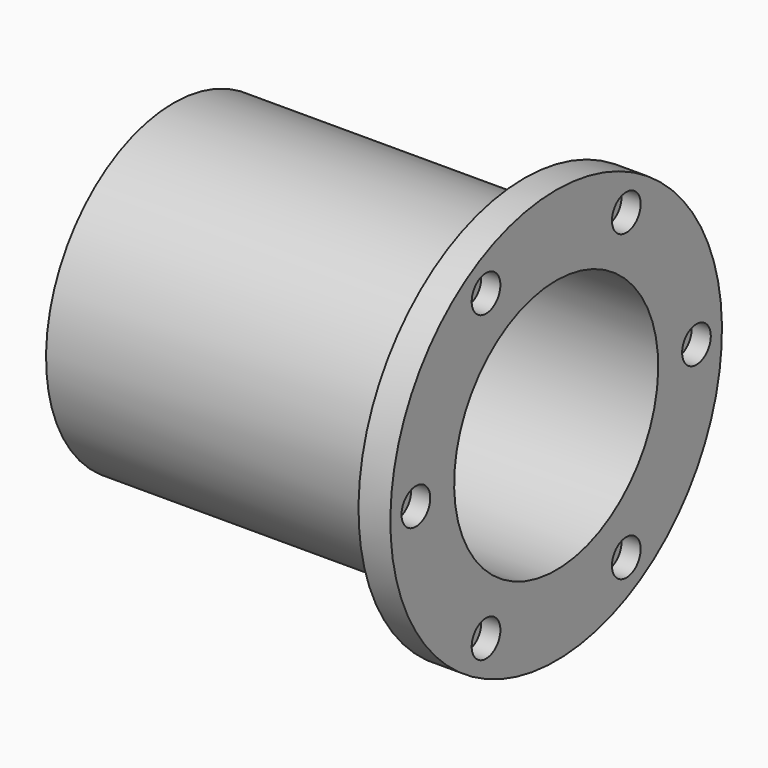
from build123d import *

# Parameters (mm, degrees)
F3_D           = 5
F3_CBORE_D     = 11.25
F3_CBORE_DEPTH = 6


with BuildPart() as f1:
    # F0 (on Front) → F1 (revolve)
    with BuildSketch(Plane.XZ):
        Polygon((0, 50), (0, 40), (120, 40), (120, 65), (110, 65), (110, 50), align=None)
    revolve(axis=Axis((47.715056873, 0, 0), (1, 0, 0)))

    # F3 (through all)
    with Locations(Plane.YZ.offset(120)):
        with Locations((-27.5, 47.6313972081), (27.5, 47.6313972081), (55, 0), (27.5, -47.6313972081), (-27.5, -47.6313972081), (-55, 0)):
            CounterBoreHole(F3_D / 2, F3_CBORE_D / 2, F3_CBORE_DEPTH)


solid = f1.part
